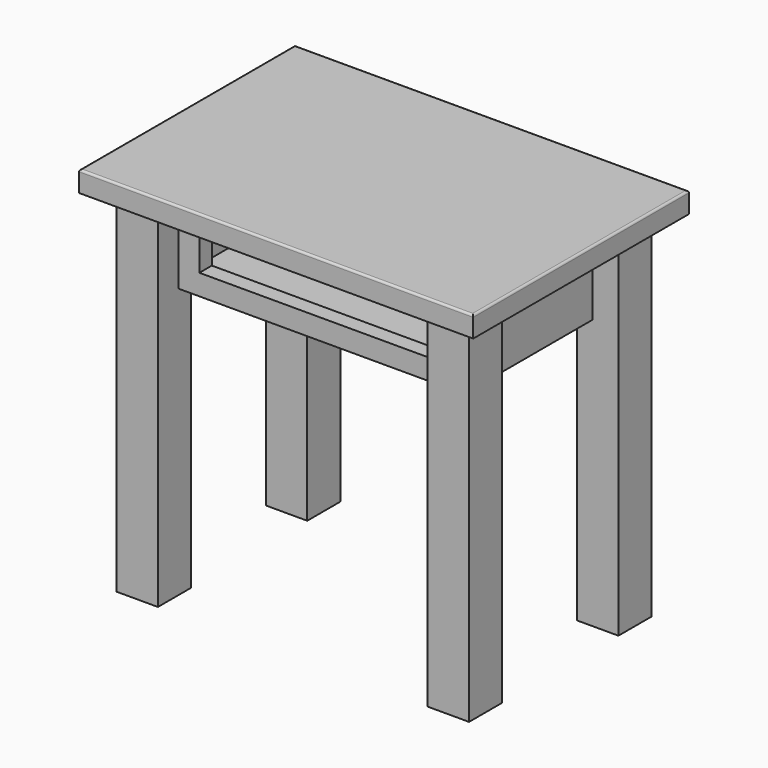
from build123d import *

# Parameters (mm, degrees)
F0_W      = 482.6
F0_H      = 330.2
F1_DEPTH  = 25.4
F2_R      = 2.54
F3_W      = 50.8
F3_H      = 50.8
F4_DEPTH  = 431.8
F7_W      = 19.05
F7_H      = 101.6
F8_DEPTH  = 330.2
F9_W      = 19.05
F9_H      = 101.6
F10_DEPTH = 177.8
F12_W     = 19.05
F12_H     = 101.6
F13_DEPTH = 330.2
F14_W     = 330.2
F14_H     = 177.8
F15_DEPTH = 12.7
F16_W     = 279.4
F16_H     = 76.2
F17_DEPTH = 19.05


with BuildPart() as f1:
    # F0 (on Top) → F1 (new body)
    with BuildSketch(Plane.XY):
        Rectangle(F0_W, F0_H)
    extrude(amount=F1_DEPTH)

    # F2
    f2_edges = [f1.edges().sort_by_distance(p)[0] for p in [
        (241.3, 0, 25.4),
        (0, 165.1, 25.4),
        (-241.3, 0, 25.4),
        (0, -165.1, 25.4),
    ]]
    fillet(f2_edges, radius=F2_R)


with BuildPart() as f4:
    # F3 (on face) → F4 (new body)
    with BuildSketch(Plane(origin=(0, 0, 0), x_dir=(1, 0, 0), z_dir=(0, 0, -1))):
        with Locations((190.5, 114.3)):
            Rectangle(F3_W, F3_H)
    extrude(amount=F4_DEPTH)


with BuildPart() as f5_1:
    # F5: instance of F4
    add(f4.part.mirror(Plane.YZ))


with BuildPart() as f6_1:
    # F6: instance of F4
    add(f4.part.mirror(Plane.XZ))


with BuildPart() as f6_2:
    # F6: instance of F5_1
    add(f5_1.part.mirror(Plane.XZ))


with BuildPart() as f8:
    # F7 (on face) → F8 (new body, through all)
    with BuildSketch(Plane(origin=(165.1, 0, 0), x_dir=(0, -1, 0), z_dir=(-1, 0, 0))):
        with Locations((-98.425, -50.8)):
            Rectangle(F7_W, F7_H)
    extrude(amount=F8_DEPTH)


with BuildPart() as f10:
    # F9 (on face) → F10 (new body, through all)
    with BuildSketch(Plane.XZ.offset(-88.9)):
        with Locations((-174.625, -50.8)):
            Rectangle(F9_W, F9_H)
    extrude(amount=F10_DEPTH)


with BuildPart() as f11_1:
    # F11: instance of F10
    add(f10.part.mirror(Plane.YZ))


with BuildPart() as f13:
    # F12 (on face) → F13 (new body, through all)
    with BuildSketch(Plane.YZ.offset(-165.1)):
        with Locations((-98.425, -50.8)):
            Rectangle(F12_W, F12_H)
    extrude(amount=F13_DEPTH)

    # F16 (on face) → F17 (cut, through all)
    with BuildSketch(Plane.XZ.offset(107.95)):
        with Locations((0, -38.1)):
            Rectangle(F16_W, F16_H)
    extrude(amount=-F17_DEPTH, mode=Mode.SUBTRACT)


with BuildPart() as f15:
    # F14 (on face) → F15 (new body)
    with BuildSketch(Plane(origin=(0, 0, -101.6), x_dir=(1, 0, 0), z_dir=(0, 0, -1))):
        Rectangle(F14_W, F14_H)
    extrude(amount=-F15_DEPTH)


solid = Compound([f1.part, f4.part, f5_1.part, f6_1.part, f6_2.part, f8.part, f10.part, f11_1.part, f13.part, f15.part])
